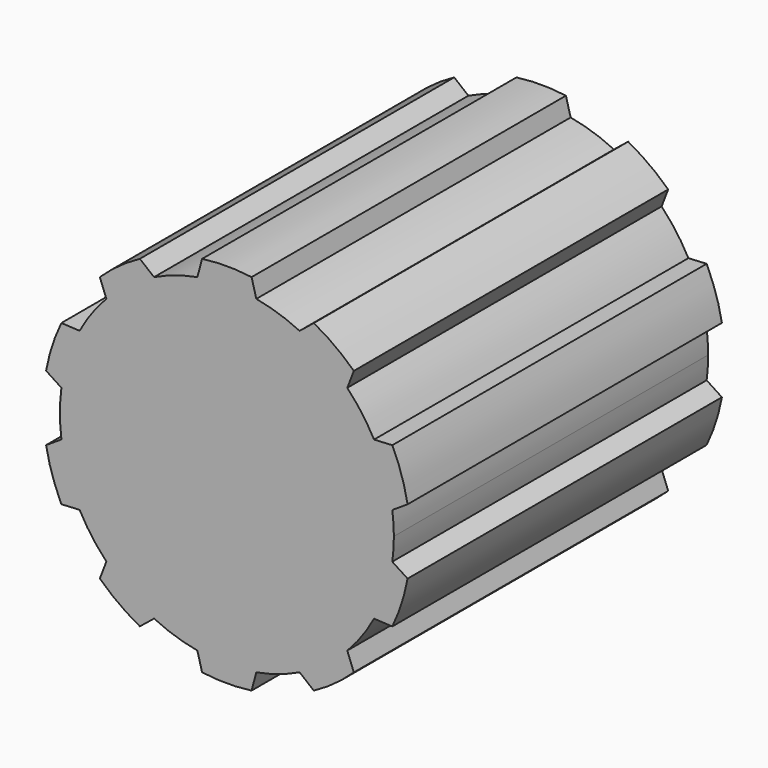
from build123d import *

# Parameters (mm, degrees)
F1_DEPTH = 50.8


with BuildPart() as f1:
    # F0 (on Front) → F1 (new body)
    with BuildSketch(Plane.XZ):
        with BuildLine():
            ThreePointArc((21.388413, -2.943446), (21.539544, -1.47517), (21.59, 0))
            ThreePointArc((21.59, 0), (21.539544, 1.47517), (21.388413, 2.943446))
            ThreePointArc((21.388413, 2.943446), (20.53331, 6.671677), (19.033704, 10.190496))
            ThreePointArc((19.033704, 10.190496), (17.466677, 12.690284), (15.573476, 14.953092))
            ThreePointArc((15.573476, 14.953092), (12.690284, 17.466677), (9.408766, 19.432015))
            ThreePointArc((9.408766, 19.432015), (6.671677, 20.53331), (3.81, 21.251165))
            ThreePointArc((3.81, 21.251165), (0, 21.59), (-3.81, 21.251165))
            ThreePointArc((-3.81, 21.251165), (-6.671677, 20.53331), (-9.408766, 19.432015))
            ThreePointArc((-9.408766, 19.432015), (-12.690284, 17.466677), (-15.573476, 14.953092))
            ThreePointArc((-15.573476, 14.953092), (-17.466677, 12.690284), (-19.033704, 10.190496))
            ThreePointArc((-19.033704, 10.190496), (-20.53331, 6.671677), (-21.388413, 2.943446))
            ThreePointArc((-21.388413, 2.943446), (-21.59, 0), (-21.388413, -2.943446))
            ThreePointArc((-21.388413, -2.943446), (-20.53331, -6.671677), (-19.033704, -10.190496))
            ThreePointArc((-19.033704, -10.190496), (-17.466677, -12.690284), (-15.573476, -14.953092))
            ThreePointArc((-15.573476, -14.953092), (-12.690284, -17.466677), (-9.408766, -19.432015))
            ThreePointArc((-9.408766, -19.432015), (-6.671677, -20.53331), (-3.81, -21.251165))
            ThreePointArc((-3.81, -21.251165), (0, -21.59), (3.81, -21.251165))
            ThreePointArc((3.81, -21.251165), (6.671677, -20.53331), (9.408766, -19.432015))
            ThreePointArc((9.408766, -19.432015), (12.690284, -17.466677), (15.573476, -14.953092))
            ThreePointArc((15.573476, -14.953092), (17.466677, -12.690284), (19.033704, -10.190496))
            ThreePointArc((19.033704, -10.190496), (20.53331, -6.671677), (21.388413, -2.943446))
        make_face()
        with BuildLine():
            ThreePointArc((-3.81, 21.251165), (0, 21.59), (3.81, 21.251165))
            Line((3.81, 21.251165), (3.198691, 23.532602))
            ThreePointArc((3.198691, 23.532602), (0, 23.749), (-3.198691, 23.532602))
            Line((-3.198691, 23.532602), (-3.81, 21.251165))
        make_face()
        with BuildLine():
            ThreePointArc((9.408766, 19.432015), (12.690284, 17.466677), (15.573476, 14.953092))
            Line((15.573476, 14.953092), (16.419912, 17.158132))
            ThreePointArc((16.419912, 17.158132), (13.959312, 19.213345), (11.244322, 20.918418))
            Line((11.244322, 20.918418), (9.408766, 19.432015))
        make_face()
        with BuildLine():
            ThreePointArc((19.033704, 10.190496), (20.53331, 6.671677), (21.388413, 2.943446))
            Line((21.388413, 2.943446), (23.369285, 4.229839))
            ThreePointArc((23.369285, 4.229839), (22.586641, 7.338845), (21.392385, 10.31411))
            Line((21.392385, 10.31411), (19.033704, 10.190496))
        make_face()
        with BuildLine():
            Line((23.369285, -4.229839), (21.388413, -2.943446))
            ThreePointArc((21.388413, -2.943446), (20.53331, -6.671677), (19.033704, -10.190496))
            Line((19.033704, -10.190496), (21.392385, -10.31411))
            ThreePointArc((21.392385, -10.31411), (22.586641, -7.338845), (23.369285, -4.229839))
        make_face()
        with BuildLine():
            Line((16.419912, -17.158132), (15.573476, -14.953092))
            ThreePointArc((15.573476, -14.953092), (12.690284, -17.466677), (9.408766, -19.432015))
            Line((9.408766, -19.432015), (11.244322, -20.918418))
            ThreePointArc((11.244322, -20.918418), (13.959312, -19.213345), (16.419912, -17.158132))
        make_face()
        with BuildLine():
            Line((3.198691, -23.532602), (3.81, -21.251165))
            ThreePointArc((3.81, -21.251165), (0, -21.59), (-3.81, -21.251165))
            Line((-3.81, -21.251165), (-3.198691, -23.532602))
            ThreePointArc((-3.198691, -23.532602), (0, -23.749), (3.198691, -23.532602))
        make_face()
        with BuildLine():
            Line((-11.244322, -20.918418), (-9.408766, -19.432015))
            ThreePointArc((-9.408766, -19.432015), (-12.690284, -17.466677), (-15.573476, -14.953092))
            Line((-15.573476, -14.953092), (-16.419912, -17.158132))
            ThreePointArc((-16.419912, -17.158132), (-13.959312, -19.213345), (-11.244322, -20.918418))
        make_face()
        with BuildLine():
            Line((-21.392385, -10.31411), (-19.033704, -10.190496))
            ThreePointArc((-19.033704, -10.190496), (-20.53331, -6.671677), (-21.388413, -2.943446))
            Line((-21.388413, -2.943446), (-23.369285, -4.229839))
            ThreePointArc((-23.369285, -4.229839), (-22.586641, -7.338845), (-21.392385, -10.31411))
        make_face()
        with BuildLine():
            ThreePointArc((-21.388413, 2.943446), (-20.53331, 6.671677), (-19.033704, 10.190496))
            Line((-19.033704, 10.190496), (-21.392385, 10.31411))
            ThreePointArc((-21.392385, 10.31411), (-22.586641, 7.338845), (-23.369285, 4.229839))
            Line((-23.369285, 4.229839), (-21.388413, 2.943446))
        make_face()
        with BuildLine():
            ThreePointArc((-15.573476, 14.953092), (-12.690284, 17.466677), (-9.408766, 19.432015))
            Line((-9.408766, 19.432015), (-11.244322, 20.918418))
            ThreePointArc((-11.244322, 20.918418), (-13.959312, 19.213345), (-16.419912, 17.158132))
            Line((-16.419912, 17.158132), (-15.573476, 14.953092))
        make_face()
    extrude(amount=-F1_DEPTH)


solid = f1.part
